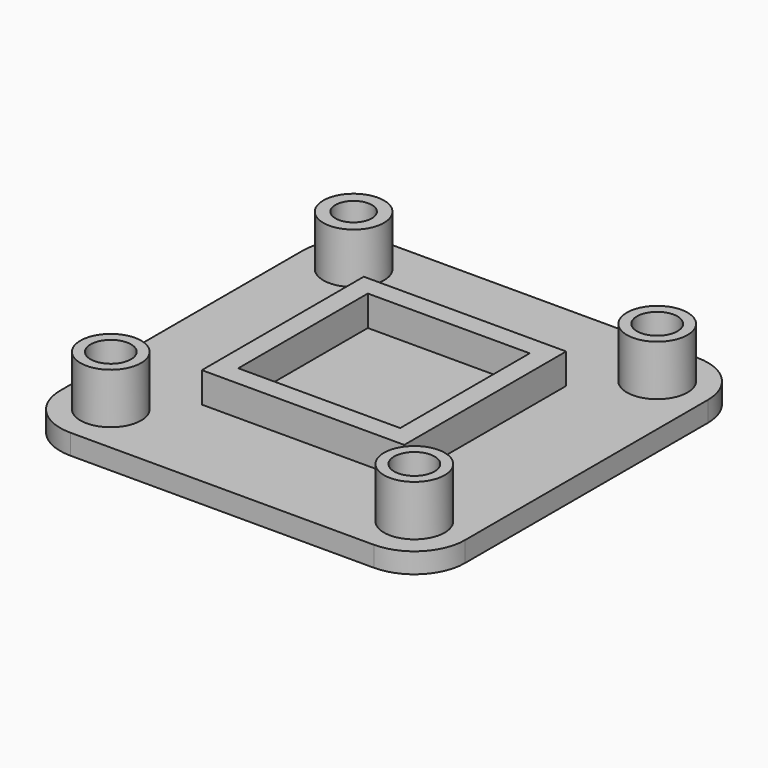
from build123d import *

# Parameters (mm, degrees)
F0_R     = 2
F0_R_2   = 1.800856
F1_DEPTH = 2
F2_R     = 3
F2_R_2   = 1.800856
F2_R_3   = 2
F3_DEPTH = 5
F4_W     = 20
F4_H     = 20
F4_W_2   = 16
F4_H_2   = 16
F5_DEPTH = 3


with BuildPart() as f1:
    # F0 (on Top) → F1 (new body)
    with BuildSketch(Plane.XY):
        with BuildLine():
            Line((-15, -20), (15, -20))
            ThreePointArc((15, -20), (18.535534, -18.535534), (20, -15))
            Line((20, -15), (20, 15))
            ThreePointArc((20, 15), (18.535534, 18.535534), (15, 20))
            Line((15, 20), (-15, 20))
            ThreePointArc((-15, 20), (-18.535534, 18.535534), (-20, 15))
            Line((-20, 15), (-20, -15))
            ThreePointArc((-20, -15), (-18.535534, -18.535534), (-15, -20))
        make_face()
        with Locations((-15, -15)):
            Circle(F0_R, mode=Mode.SUBTRACT)
        with Locations((15, -15)):
            Circle(F0_R, mode=Mode.SUBTRACT)
        with Locations((-15, 15)):
            Circle(F0_R_2, mode=Mode.SUBTRACT)
        with Locations((15, 15)):
            Circle(F0_R, mode=Mode.SUBTRACT)
        with BuildLine():
            Line((-15, -20), (15, -20))
            ThreePointArc((15, -20), (18.535534, -18.535534), (20, -15))
            Line((20, -15), (20, 15))
            ThreePointArc((20, 15), (18.535534, 18.535534), (15, 20))
            Line((15, 20), (-15, 20))
            ThreePointArc((-15, 20), (-18.535534, 18.535534), (-20, 15))
            Line((-20, 15), (-20, -15))
            ThreePointArc((-20, -15), (-18.535534, -18.535534), (-15, -20))
        make_face()
        with Locations((-15, -15)):
            Circle(F0_R, mode=Mode.SUBTRACT)
        with Locations((15, -15)):
            Circle(F0_R, mode=Mode.SUBTRACT)
        with Locations((-15, 15)):
            Circle(F0_R_2, mode=Mode.SUBTRACT)
        with Locations((15, 15)):
            Circle(F0_R, mode=Mode.SUBTRACT)
        with BuildLine():
            Line((-15, -20), (15, -20))
            ThreePointArc((15, -20), (18.535534, -18.535534), (20, -15))
            Line((20, -15), (20, 15))
            ThreePointArc((20, 15), (18.535534, 18.535534), (15, 20))
            Line((15, 20), (-15, 20))
            ThreePointArc((-15, 20), (-18.535534, 18.535534), (-20, 15))
            Line((-20, 15), (-20, -15))
            ThreePointArc((-20, -15), (-18.535534, -18.535534), (-15, -20))
        make_face()
        with Locations((-15, -15)):
            Circle(F0_R, mode=Mode.SUBTRACT)
        with Locations((15, -15)):
            Circle(F0_R, mode=Mode.SUBTRACT)
        with Locations((-15, 15)):
            Circle(F0_R_2, mode=Mode.SUBTRACT)
        with Locations((15, 15)):
            Circle(F0_R, mode=Mode.SUBTRACT)
        with BuildLine():
            Line((-15, -20), (15, -20))
            ThreePointArc((15, -20), (18.535534, -18.535534), (20, -15))
            Line((20, -15), (20, 15))
            ThreePointArc((20, 15), (18.535534, 18.535534), (15, 20))
            Line((15, 20), (-15, 20))
            ThreePointArc((-15, 20), (-18.535534, 18.535534), (-20, 15))
            Line((-20, 15), (-20, -15))
            ThreePointArc((-20, -15), (-18.535534, -18.535534), (-15, -20))
        make_face()
        with Locations((-15, -15)):
            Circle(F0_R, mode=Mode.SUBTRACT)
        with Locations((15, -15)):
            Circle(F0_R, mode=Mode.SUBTRACT)
        with Locations((-15, 15)):
            Circle(F0_R_2, mode=Mode.SUBTRACT)
        with Locations((15, 15)):
            Circle(F0_R, mode=Mode.SUBTRACT)
        with BuildLine():
            Line((-15, -20), (15, -20))
            ThreePointArc((15, -20), (18.535534, -18.535534), (20, -15))
            Line((20, -15), (20, 15))
            ThreePointArc((20, 15), (18.535534, 18.535534), (15, 20))
            Line((15, 20), (-15, 20))
            ThreePointArc((-15, 20), (-18.535534, 18.535534), (-20, 15))
            Line((-20, 15), (-20, -15))
            ThreePointArc((-20, -15), (-18.535534, -18.535534), (-15, -20))
        make_face()
        with Locations((-15, -15)):
            Circle(F0_R, mode=Mode.SUBTRACT)
        with Locations((15, -15)):
            Circle(F0_R, mode=Mode.SUBTRACT)
        with Locations((-15, 15)):
            Circle(F0_R_2, mode=Mode.SUBTRACT)
        with Locations((15, 15)):
            Circle(F0_R, mode=Mode.SUBTRACT)
    extrude(amount=F1_DEPTH)

    # F2 (on face) → F3 (join)
    with BuildSketch(Plane.XY.offset(2)):
        with Locations((-15, 15)):
            Circle(F2_R)
        with Locations((-15, 15)):
            Circle(F2_R_2, mode=Mode.SUBTRACT)
        with Locations((15, 15)):
            Circle(F2_R)
        with Locations((15, 15)):
            Circle(F2_R_3, mode=Mode.SUBTRACT)
        with Locations((15, -15)):
            Circle(F2_R)
        with Locations((15, -15)):
            Circle(F2_R_3, mode=Mode.SUBTRACT)
        with Locations((-15, -15)):
            Circle(F2_R)
        with Locations((-15, -15)):
            Circle(F2_R_3, mode=Mode.SUBTRACT)
    extrude(amount=F3_DEPTH)

    # F4 (on face) → F5 (join)
    with BuildSketch(Plane.XY.offset(2)):
        Rectangle(F4_W, F4_H)
        Rectangle(F4_W_2, F4_H_2, mode=Mode.SUBTRACT)
    extrude(amount=F5_DEPTH)


solid = f1.part
